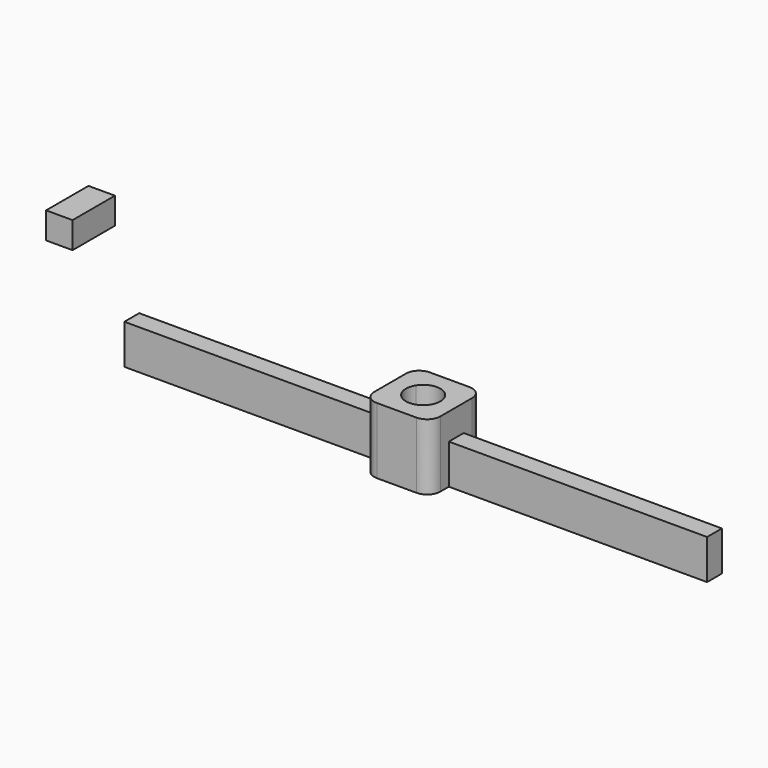
from build123d import *

# Parameters (mm, degrees)
F0_W     = 19.5
F0_H     = 1.4
F1_DEPTH = 3
F2_DEPTH = 5
F0_W_2   = 2
F0_H_2   = 4
F3_DEPTH = 2


with BuildPart() as f1:
    # F0 (on Top) → F1 (new body)
    with BuildSketch(Plane.XY):
        with Locations((-12.25, 0)):
            Rectangle(F0_W, F0_H)
    extrude(amount=F1_DEPTH)


with BuildPart() as f1b:
    # F0 (on Top) → F1, piece 2 (new body)
    with BuildSketch(Plane.XY):
        with Locations((12.25, 0)):
            Rectangle(F0_W, F0_H)
    extrude(amount=F1_DEPTH)


with BuildPart() as f2:
    # F0 (on Top) → F2 (new body)
    with BuildSketch(Plane.XY):
        with BuildLine():
            Line((-2.5, 1.5), (-2.5, 0.7))
            Line((-2.5, 0.7), (-1.095445115, 0.7))
            ThreePointArc((-1.095445115, 0.7), (0, 1.3), (1.095445115, 0.7))
            Line((1.095445115, 0.7), (2.5, 0.7))
            Line((2.5, 0.7), (2.5, 1.5))
            ThreePointArc((2.5, 1.5), (2.2071067812, 2.2071067812), (1.5, 2.5))
            Line((1.5, 2.5), (-1.5, 2.5))
            ThreePointArc((-1.5, 2.5), (-2.2071067812, 2.2071067812), (-2.5, 1.5))
        make_face()
        with BuildLine():
            Line((-1.095445115, 0.7), (-2.5, 0.7))
            Line((-2.5, 0.7), (-2.5, -0.7))
            Line((-2.5, -0.7), (-1.095445115, -0.7))
            ThreePointArc((-1.095445115, -0.7), (-1.3, 0), (-1.095445115, 0.7))
        make_face()
        with BuildLine():
            Line((2.5, 0.7), (1.095445115, 0.7))
            ThreePointArc((1.095445115, 0.7), (1.2478138181, 0.3646377315), (1.3, 0))
            ThreePointArc((1.3, 0), (1.2478138181, -0.3646377315), (1.095445115, -0.7))
            Line((1.095445115, -0.7), (2.5, -0.7))
            Line((2.5, -0.7), (2.5, 0.7))
        make_face()
        with BuildLine():
            Line((-1.095445115, -0.7), (-2.5, -0.7))
            Line((-2.5, -0.7), (-2.5, -1.5))
            ThreePointArc((-2.5, -1.5), (-2.2071067812, -2.2071067812), (-1.5, -2.5))
            Line((-1.5, -2.5), (1.5, -2.5))
            ThreePointArc((1.5, -2.5), (2.2071067812, -2.2071067812), (2.5, -1.5))
            Line((2.5, -1.5), (2.5, -0.7))
            Line((2.5, -0.7), (1.095445115, -0.7))
            ThreePointArc((1.095445115, -0.7), (0, -1.3), (-1.095445115, -0.7))
        make_face()
    extrude(amount=F2_DEPTH)


with BuildPart() as f3:
    # F0 (on Top) → F3 (new body)
    with BuildSketch(Plane.XY):
        with Locations((-34.6903076172, 11.0231541544)):
            Rectangle(F0_W_2, F0_H_2)
    extrude(amount=F3_DEPTH)


solid = Compound([f1.part, f1b.part, f2.part, f3.part])
